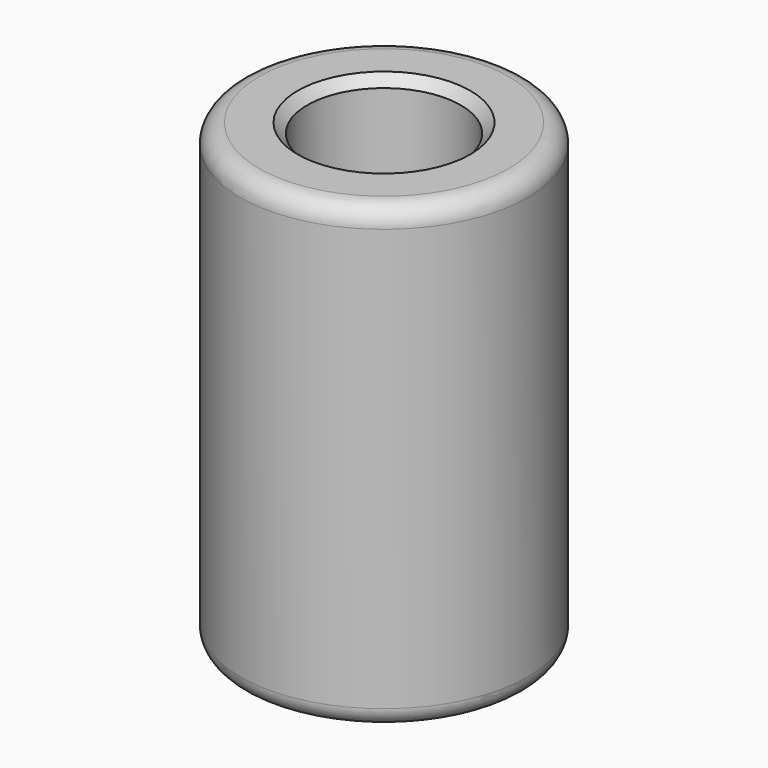
from build123d import *

# Parameters (mm, degrees)
SKETCH_R     = 7.5
SKETCH_R_2   = 4
PAD_DEPTH    = 24
FILLET_R     = 1
CHAMFER_SIZE = 0.5


with BuildPart() as part:
    # Sketch → Pad (new body)
    with BuildSketch(Plane.XY):
        Circle(SKETCH_R)
        Circle(SKETCH_R_2, mode=Mode.SUBTRACT)
    extrude(amount=PAD_DEPTH)

    # Fillet
    fillet_edges = [part.edges().sort_by_distance(p)[0] for p in [
        (-7.5, 0, 24),
        (-7.5, 0, 0),
    ]]
    fillet(fillet_edges, radius=FILLET_R)

    # Chamfer
    chamfer_edges = [part.edges().sort_by_distance(p)[0] for p in [
        (-4, 0, 24),
    ]]
    chamfer(chamfer_edges, length=CHAMFER_SIZE)


solid = part.part
